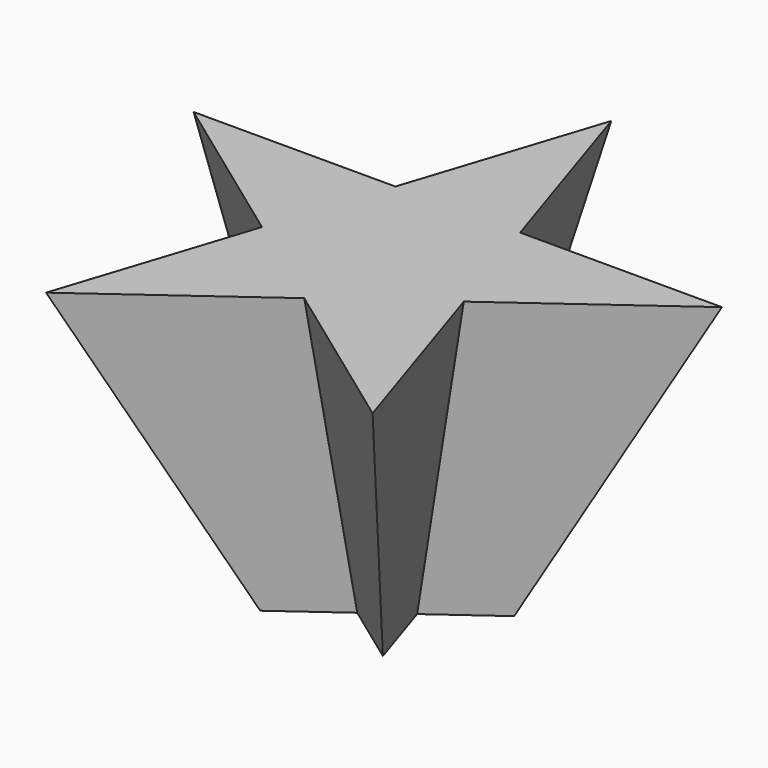
from build123d import *

# Parameters (mm, degrees)
F2_DEPTH = 90
F2_TAPER = -10


with BuildPart() as f2:
    # F0 (on Top) → F2 (new body)
    with BuildSketch(Plane.XY):
        Polygon((-6.9378637856, 9.5491502813), (-29.3892626146, 9.5491502813), (-11.2256994145, -3.6474508438), align=None)
        Polygon((0, -11.803398875), (-11.2256994145, -3.6474508438), (-18.1635632001, -25), align=None)
        Polygon((11.2256994145, -3.6474508438), (0, -11.803398875), (18.1635632001, -25), align=None)
        Polygon((6.9378637856, 9.5491502813), (-6.9378637856, 9.5491502813), (-11.2256994145, -3.6474508438), (0, -11.803398875), (11.2256994145, -3.6474508438), align=None)
        Polygon((29.3892626146, 9.5491502813), (6.9378637856, 9.5491502813), (11.2256994145, -3.6474508438), align=None)
        Polygon((0, 30.9016994375), (-6.9378637856, 9.5491502813), (6.9378637856, 9.5491502813), align=None)
    extrude(amount=F2_DEPTH, taper=F2_TAPER)


solid = f2.part
